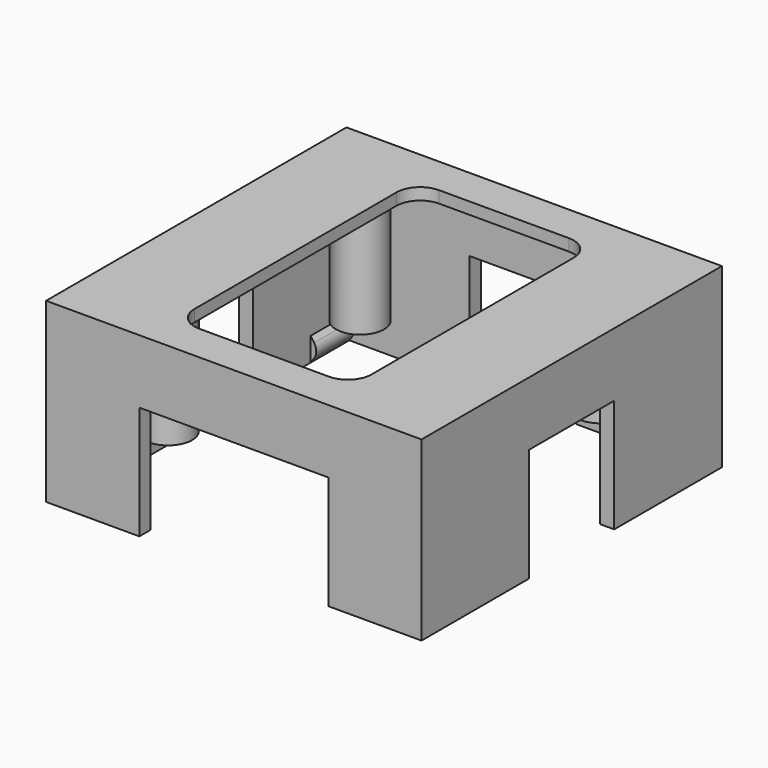
from build123d import *

# Parameters (mm, degrees)
SKETCH007_W                 = 31.8
SKETCH007_H                 = 31.8
PAD006_DEPTH                = 1
SKETCH009_W                 = 15
SKETCH009_H                 = 25.4
POCKET001_DEPTH             = 1.001
SKETCH010_R                 = 2.032
SKETCH010_R_2               = 1.232
PAD008_DEPTH                = 9.2
SKETCH010_MIRRORED009_2_R   = 2.032
SKETCH010_MIRRORED009_2_R_2 = 1.232
PAD008_MIRRORED009_2_DEPTH  = 9.2
SKETCH027_W                 = 31.8
SKETCH027_H                 = 31.8
SKETCH027_W_2               = 29.4
SKETCH027_H_2               = 29.4
PAD016_DEPTH                = 14
PAD017_DEPTH                = 5.3
PAD017_MIRRORED025_2_DEPTH  = 5.3
SKETCH029_W                 = 9
SKETCH029_H                 = 1.5
SKETCH029_W_2               = 16
POCKET010_DEPTH             = 9.6
SKETCH030_W                 = 1.5
SKETCH030_H                 = 9
POCKET011_DEPTH             = 9.6
FILLET013_R                 = 2
BODY002_PLACEMENT_ANGLE     = 180


with BuildPart() as part:
    # Sketch007 → Pad006 (new body)
    with BuildSketch(Plane.XY):
        Rectangle(SKETCH007_W, SKETCH007_H)
    extrude(amount=PAD006_DEPTH)

    # Sketch009 → Pocket001 (cut, through all)
    with BuildSketch(Plane.XY.offset(1)):
        Rectangle(SKETCH009_W, SKETCH009_H)
    extrude(amount=-POCKET001_DEPTH, mode=Mode.SUBTRACT)

    # Sketch010 (on Face5 of Pocket001) → Pad008 (join)
    with BuildSketch(Plane.XY.offset(1)):
        with Locations((10.16, 10.16)):
            Circle(SKETCH010_R)
        with Locations((10.16, 10.16)):
            Circle(SKETCH010_R_2, mode=Mode.SUBTRACT)
    pad008 = extrude(amount=PAD008_DEPTH)

    # Sketch010 Mirrored009 2 → Pad008 Mirrored009 2 (add)
    with BuildSketch(Plane(origin=(0, 0, 1), x_dir=(-1, 0, 0), z_dir=(0, 0, -1))):
        with Locations((10.16, 10.16)):
            Circle(SKETCH010_MIRRORED009_2_R)
        with Locations((10.16, 10.16)):
            Circle(SKETCH010_MIRRORED009_2_R_2, mode=Mode.SUBTRACT)
    pad008_mirrored009_2 = extrude(amount=-PAD008_MIRRORED009_2_DEPTH)

    # Mirrored010: Pad008, Pad008 Mirrored009 2 across Sketch010 H_Axis
    add(pad008.mirror(Plane(origin=(0, 0, 1), x_dir=(0, 0, 1), z_dir=(0, 1, 0))))
    add(pad008_mirrored009_2.mirror(Plane(origin=(0, 0, 1), x_dir=(0, 0, 1), z_dir=(0, 1, 0))))

    # Sketch027 (on Face5 of MultiTransform006) → Pad016 (join)
    with BuildSketch(Plane.XY.offset(1)):
        Rectangle(SKETCH027_W, SKETCH027_H)
        Rectangle(SKETCH027_W_2, SKETCH027_H_2, mode=Mode.SUBTRACT)
    extrude(amount=PAD016_DEPTH)

    # Sketch028 (on Face14 of Pad016) → Pad017 (join)
    with BuildSketch(Plane.XZ.offset(15.9)):
        with BuildLine():
            Line((-14.7, 13), (-14.7, 15))
            Line((-14.7, 15), (-14.401415, 14.573576))
            ThreePointArc((-14.401415, 13.426424), (-14.220567, 14), (-14.401415, 14.573576))
            Line((-14.401415, 13.426424), (-14.7, 13))
        make_face()
    pad017 = extrude(amount=-PAD017_DEPTH)

    # Sketch028 Mirrored025 2 → Pad017 Mirrored025 2 (add)
    with BuildSketch(Plane(origin=(0, -15.9, 0), x_dir=(-1, 0, 0), z_dir=(0, 1, 0))):
        with BuildLine():
            Line((-14.7, 13), (-14.7, 15))
            Line((-14.7, 15), (-14.401415, 14.573576))
            ThreePointArc((-14.401415, 13.426424), (-14.220567, 14), (-14.401415, 14.573576))
            Line((-14.401415, 13.426424), (-14.7, 13))
        make_face()
    pad017_mirrored025_2 = extrude(amount=PAD017_MIRRORED025_2_DEPTH)

    # Mirrored026: Pad017, Pad017 Mirrored025 2 across XZ
    add(pad017.mirror(Plane.XZ))
    add(pad017_mirrored025_2.mirror(Plane.XZ))

    # Sketch029 (on Face23 of MultiTransform012) → Pocket010 (cut)
    with BuildSketch(Plane.XY.offset(15)):
        with Locations((0, 15.15)):
            Rectangle(SKETCH029_W, SKETCH029_H)
        with Locations((0, -15.15)):
            Rectangle(SKETCH029_W_2, SKETCH029_H)
    extrude(amount=-POCKET010_DEPTH, mode=Mode.SUBTRACT)

    # Sketch030 (on Face18 of Pocket010) → Pocket011 (cut)
    with BuildSketch(Plane.XY.offset(15)):
        with Locations((15.15, 0)):
            Rectangle(SKETCH030_W, SKETCH030_H)
    pocket011 = extrude(amount=-POCKET011_DEPTH, mode=Mode.SUBTRACT)

    # Mirrored027: Pocket011 across Sketch030 V_Axis
    add(pocket011.mirror(Plane(origin=(0, 0, 15), x_dir=(0, 0, 1), z_dir=(1, 0, 0))), mode=Mode.SUBTRACT)

    # Fillet013
    fillet013_edges = [part.edges().sort_by_distance(p)[0] for p in [
        (7.5, 12.7, 0.5),
        (-7.5, 12.7, 0.5),
        (7.5, -12.7, 0.5),
        (-7.5, -12.7, 0.5),
    ]]
    fillet(fillet013_edges, radius=FILLET013_R)


with BuildPart() as part_1:
    # Body002 placement: moved
    add(part.part.moved(Location((0, 0, 15))).rotate(Axis((0, 0, 15), (0, 1, 0)), BODY002_PLACEMENT_ANGLE))


solid = part_1.part
